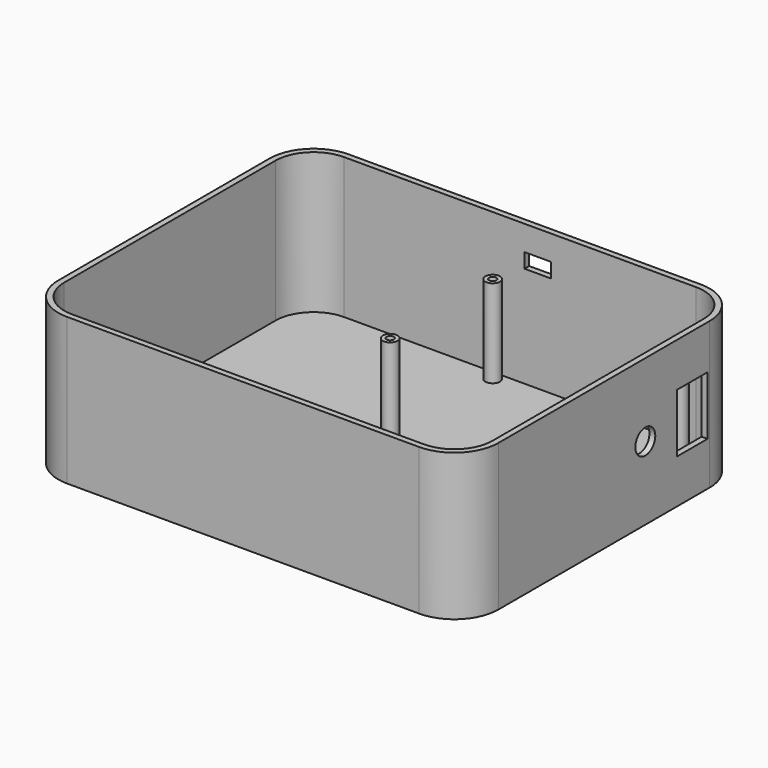
from build123d import *

# Parameters (mm, degrees)
F1_DEPTH  = 50
F2_T      = -2
F3_R      = 2.5
F3_R_2    = 1.25
F4_DEPTH  = 30
F5_W      = 9
F5_H      = 5
F6_DEPTH  = 2
F8_R      = 4.25
F8_W      = 13
F8_H      = 20
F9_DEPTH  = 2
F10_R     = 2.5
F10_R_2   = 1.25
F11_DEPTH = 5


with BuildPart() as f1:
    # F0 (on Top) → F1 (new body)
    with BuildSketch(Plane.XY):
        with BuildLine():
            Line((60, 60), (-60, 60))
            ThreePointArc((-60, 60), (-70.606602, 55.606602), (-75, 45))
            Line((-75, 45), (-75, -45))
            ThreePointArc((-75, -45), (-70.606602, -55.606602), (-60, -60))
            Line((-60, -60), (60, -60))
            ThreePointArc((60, -60), (70.606602, -55.606602), (75, -45))
            Line((75, -45), (75, 45))
            ThreePointArc((75, 45), (70.606602, 55.606602), (60, 60))
        make_face()
    extrude(amount=F1_DEPTH)

    # F2
    f2_openings = [f1.faces().sort_by_distance(p)[0] for p in [
        (0, 0, 50),
    ]]
    offset(amount=F2_T, openings=f2_openings)

    # F3 (on face) → F4 (join)
    with BuildSketch(Plane.XY.offset(2)):
        with Locations((-6.825, 54.825)):
            Circle(F3_R)
        with Locations((-6.825, 54.825)):
            Circle(F3_R_2, mode=Mode.SUBTRACT)
        with Locations((-6.825, 11.175)):
            Circle(F3_R)
        with Locations((-6.825, 11.175)):
            Circle(F3_R_2, mode=Mode.SUBTRACT)
        with Locations((56.825, 54.825)):
            Circle(F3_R)
        with Locations((56.825, 54.825)):
            Circle(F3_R_2, mode=Mode.SUBTRACT)
        with Locations((56.825, 11.175)):
            Circle(F3_R)
        with Locations((56.825, 11.175)):
            Circle(F3_R_2, mode=Mode.SUBTRACT)
    extrude(amount=F4_DEPTH)

    # F5 (on face) → F6 (cut, through all)
    with BuildSketch(Plane(origin=(0, 60, 0), x_dir=(-1, 0, 0), z_dir=(0, 1, 0))):
        with Locations((-6, 39)):
            Rectangle(F5_W, F5_H)
    extrude(amount=-F6_DEPTH, mode=Mode.SUBTRACT)

    # F8 (on face) → F9 (cut, through all)
    with BuildSketch(Plane.YZ.offset(75)):
        with Locations((17.588826, 25)):
            Circle(F8_R)
        with Locations((37.588826, 25)):
            Rectangle(F8_W, F8_H)
    extrude(amount=-F9_DEPTH, mode=Mode.SUBTRACT)

    # F10 (on face) → F11 (join)
    with BuildSketch(Plane.XY.offset(2)):
        with Locations((-4.46, -48.825)):
            Circle(F10_R)
        with Locations((-4.46, -48.825)):
            Circle(F10_R_2, mode=Mode.SUBTRACT)
        with Locations((3.46, -48.825)):
            Circle(F10_R)
        with Locations((3.46, -48.825)):
            Circle(F10_R_2, mode=Mode.SUBTRACT)
        with Locations((12.54, -48.825)):
            Circle(F10_R)
        with Locations((12.54, -48.825)):
            Circle(F10_R_2, mode=Mode.SUBTRACT)
        with Locations((20.46, -48.825)):
            Circle(F10_R)
        with Locations((20.46, -48.825)):
            Circle(F10_R_2, mode=Mode.SUBTRACT)
        with Locations((29.54, -48.825)):
            Circle(F10_R)
        with Locations((29.54, -48.825)):
            Circle(F10_R_2, mode=Mode.SUBTRACT)
        with Locations((37.46, -48.825)):
            Circle(F10_R)
        with Locations((37.46, -48.825)):
            Circle(F10_R_2, mode=Mode.SUBTRACT)
        with Locations((46.54, -48.825)):
            Circle(F10_R)
        with Locations((46.54, -48.825)):
            Circle(F10_R_2, mode=Mode.SUBTRACT)
        with Locations((54.46, -48.825)):
            Circle(F10_R)
        with Locations((54.46, -48.825)):
            Circle(F10_R_2, mode=Mode.SUBTRACT)
    extrude(amount=F11_DEPTH)


solid = f1.part
